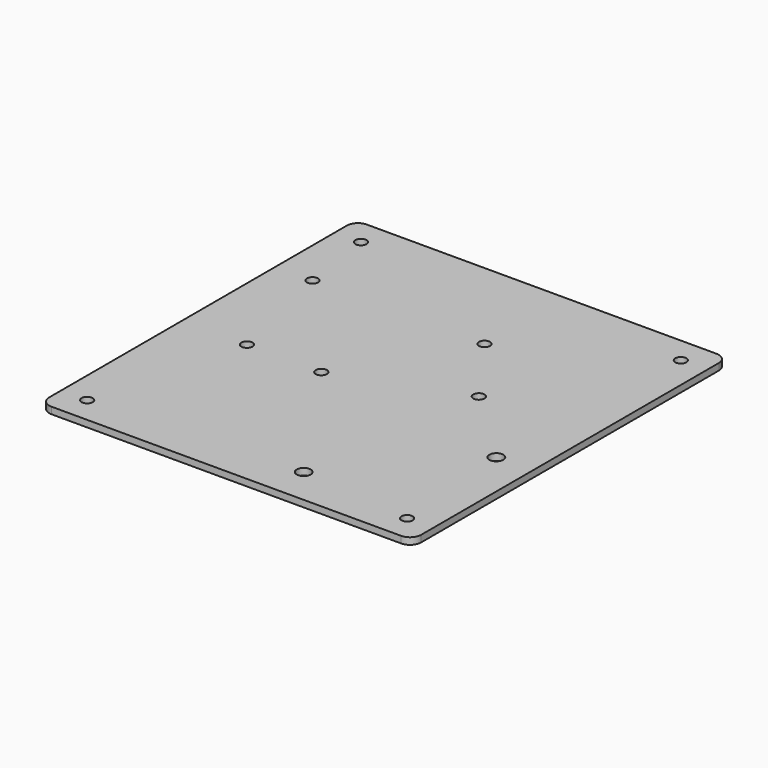
from build123d import *

# Parameters (mm, degrees)
F0_R     = 1.5
F0_R_2   = 1.875
F1_DEPTH = 1.8


with BuildPart() as f1:
    # F0 (on Top) → F1 (new body)
    with BuildSketch(Plane.XY):
        with BuildLine():
            Line((-98.341699, -18.824226), (-4.341699, -18.824226))
            ThreePointArc((-4.341699, -18.824226), (-2.220379, -17.945546), (-1.341699, -15.824226))
            Line((-1.341699, -15.824226), (-1.341699, 84.175774))
            ThreePointArc((-1.341699, 84.175774), (-2.220379, 86.297094), (-4.341699, 87.175774))
            Line((-4.341699, 87.175774), (-98.341699, 87.175774))
            ThreePointArc((-98.341699, 87.175774), (-100.46302, 86.297094), (-101.341699, 84.175774))
            Line((-101.341699, 84.175774), (-101.341699, -15.824226))
            ThreePointArc((-101.341699, -15.824226), (-100.46302, -17.945546), (-98.341699, -18.824226))
        make_face()
        with Locations((-94.341699, -11.824226)):
            Circle(F0_R, mode=Mode.SUBTRACT)
        with Locations((-83.92407, 28.841723)):
            Circle(F0_R, mode=Mode.SUBTRACT)
        with Locations((-63.92407, 28.841723)):
            Circle(F0_R, mode=Mode.SUBTRACT)
        with Locations((-91.388723, 60.224189)):
            Circle(F0_R, mode=Mode.SUBTRACT)
        with Locations((-94.341699, 80.175774)):
            Circle(F0_R, mode=Mode.SUBTRACT)
        with Locations((-38.428727, -8.937866)):
            Circle(F0_R_2, mode=Mode.SUBTRACT)
        with Locations((-8.341699, -11.824226)):
            Circle(F0_R, mode=Mode.SUBTRACT)
        with Locations((-11.03972, 21.549158)):
            Circle(F0_R_2, mode=Mode.SUBTRACT)
        with Locations((-45.174403, 60.224189)):
            Circle(F0_R, mode=Mode.SUBTRACT)
        with Locations((-31.175356, 40.833933)):
            Circle(F0_R, mode=Mode.SUBTRACT)
        with Locations((-8.341699, 80.175774)):
            Circle(F0_R, mode=Mode.SUBTRACT)
    extrude(amount=F1_DEPTH)


solid = f1.part
